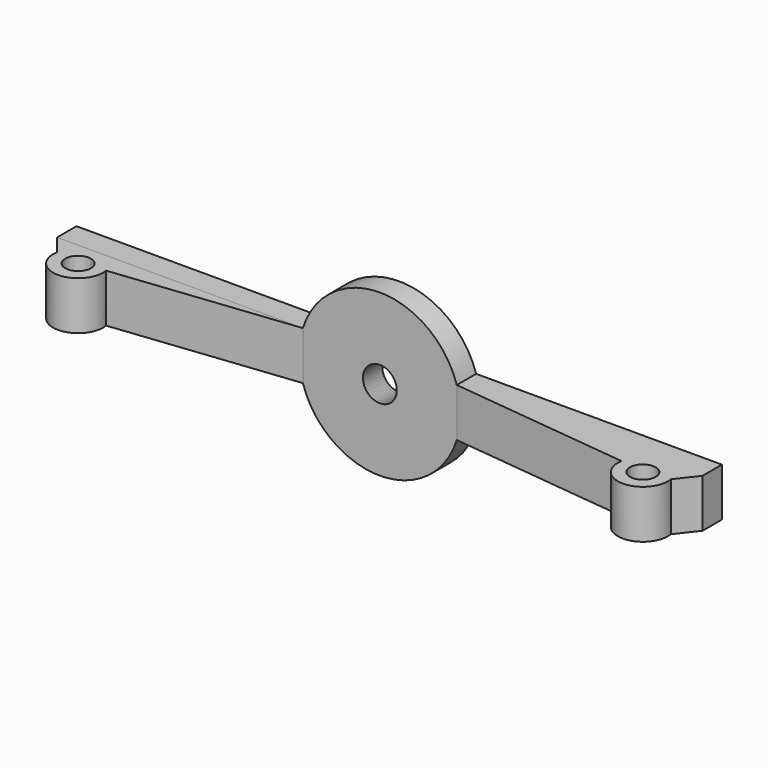
from build123d import *

# Parameters (mm, degrees)
F1_DEPTH      = 3
F3_D          = 4.2
F4_R          = 1.6
F5_DEPTH      = 3
F5_DEPTH_BACK = 3


with BuildPart() as f1:
    # F0 (on Front) → F1 (new body)
    with BuildSketch(Plane.XZ):
        with BuildLine():
            Line((-9.5393920142, 3), (9.5393920142, 3))
            ThreePointArc((9.5393920142, 3), (0, 10), (-9.5393920142, 3))
        make_face()
        with BuildLine():
            ThreePointArc((9.5393920142, -3), (9.8841772582, -1.5175769928), (10, 0))
            ThreePointArc((10, 0), (9.8841772582, 1.5175769928), (9.5393920142, 3))
            Line((9.5393920142, 3), (-9.5393920142, 3))
            ThreePointArc((-9.5393920142, 3), (-10, 0), (-9.5393920142, -3))
            Line((-9.5393920142, -3), (9.5393920142, -3))
        make_face()
        with BuildLine():
            ThreePointArc((9.5393920142, 3), (9.8841772582, 1.5175769928), (10, 0))
            ThreePointArc((10, 0), (9.8841772582, -1.5175769928), (9.5393920142, -3))
            Line((9.5393920142, -3), (40, -3))
            Line((40, -3), (40, 3))
            Line((40, 3), (9.5393920142, 3))
        make_face()
        with BuildLine():
            ThreePointArc((-9.5393920142, -3), (0, -10), (9.5393920142, -3))
            Line((9.5393920142, -3), (-9.5393920142, -3))
        make_face()
        with BuildLine():
            ThreePointArc((-9.5393920142, -3), (-10, 0), (-9.5393920142, 3))
            Line((-9.5393920142, 3), (-40, 3))
            Line((-40, 3), (-40, -3))
            Line((-40, -3), (-9.5393920142, -3))
        make_face()
    extrude(amount=F1_DEPTH)

    # F3 (through all)
    with Locations(Plane.XZ.offset(3)):
        with Locations((0, 0)):
            Hole(F3_D / 2)

    # F4 (on Top) → F5 (join, two sides)
    with BuildSketch(Plane.XY) as f5_sk:
        with BuildLine():
            Line((-40, -3), (-38.0570241789, -5.4856040731))
            ThreePointArc((-38.0570241789, -5.4856040731), (-35, -9.1), (-31.9429758211, -5.4856040731))
            Line((-31.9429758211, -5.4856040731), (-9.5393920142, -3))
            Line((-9.5393920142, -3), (-40, -3))
        make_face()
        with Locations((-35, -6)):
            Circle(F4_R, mode=Mode.SUBTRACT)
    extrude(amount=F5_DEPTH)
    extrude(f5_sk.sketch, amount=-F5_DEPTH_BACK)


with BuildPart() as f6_1:
    # F6: instance of F1
    add(f1.part.mirror(Plane.YZ))


solid = Compound([f1.part, f6_1.part])
